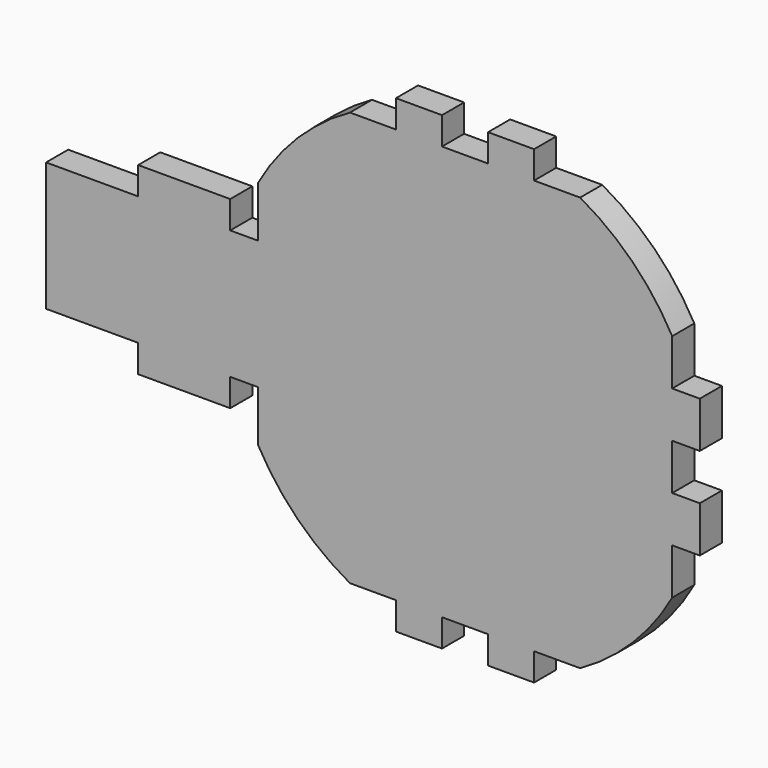
from build123d import *

# Parameters (mm, degrees)
F1_DEPTH = 6


with BuildPart() as f1:
    # F0 (on Front) → F1 (new body)
    with BuildSketch(Plane.XZ):
        with BuildLine():
            Line((43.369441, -58.054813), (53.369441, -58.054813))
            ThreePointArc((53.369441, -58.054813), (64.76999, -49.455363), (73.369441, -38.054813))
            Line((73.369441, -38.054813), (73.369441, -28.054813))
            Line((73.369441, -28.054813), (79.369441, -28.054813))
            Line((79.369441, -28.054813), (79.369441, -18.054813))
            Line((79.369441, -18.054813), (73.369441, -18.054813))
            Line((73.369441, -18.054813), (73.369441, -8.054813))
            Line((73.369441, -8.054813), (79.369441, -8.054813))
            Line((79.369441, -8.054813), (79.369441, 1.945187))
            Line((79.369441, 1.945187), (73.369441, 1.945187))
            Line((73.369441, 1.945187), (73.369441, 11.945187))
            ThreePointArc((73.369441, 11.945187), (64.76999, 23.345736), (53.369441, 31.945187))
            Line((53.369441, 31.945187), (43.369441, 31.945187))
            Line((43.369441, 31.945187), (43.369441, 37.945187))
            Line((43.369441, 37.945187), (33.369441, 37.945187))
            Line((33.369441, 37.945187), (33.369441, 31.945187))
            Line((33.369441, 31.945187), (23.369441, 31.945187))
            Line((23.369441, 31.945187), (23.369441, 37.945187))
            Line((23.369441, 37.945187), (13.369441, 37.945187))
            Line((13.369441, 37.945187), (13.369441, 31.945187))
            Line((13.369441, 31.945187), (3.369441, 31.945187))
            ThreePointArc((3.369441, 31.945187), (-8.031109, 23.345736), (-16.630559, 11.945187))
            Line((-16.630559, 11.945187), (-16.630559, 0.945187))
            Line((-16.630559, 0.945187), (-22.630559, 0.945187))
            Line((-22.630559, 0.945187), (-22.630559, 6.945187))
            Line((-22.630559, 6.945187), (-42.630559, 6.945187))
            Line((-42.630559, 6.945187), (-42.630559, 0.945187))
            Line((-42.630559, 0.945187), (-62.630559, 0.945187))
            Line((-62.630559, 0.945187), (-62.630559, -27.054813))
            Line((-62.630559, -27.054813), (-42.630559, -27.054813))
            Line((-42.630559, -27.054813), (-42.630559, -33.054813))
            Line((-42.630559, -33.054813), (-22.630559, -33.054813))
            Line((-22.630559, -33.054813), (-22.630559, -27.054813))
            Line((-22.630559, -27.054813), (-16.630559, -27.054813))
            Line((-16.630559, -27.054813), (-16.630559, -38.054813))
            ThreePointArc((-16.630559, -38.054813), (-8.031109, -49.455363), (3.369441, -58.054813))
            Line((3.369441, -58.054813), (13.369441, -58.054813))
            Line((13.369441, -58.054813), (13.369441, -64.054813))
            Line((13.369441, -64.054813), (23.369441, -64.054813))
            Line((23.369441, -64.054813), (23.369441, -58.054813))
            Line((23.369441, -58.054813), (33.369441, -58.054813))
            Line((33.369441, -58.054813), (33.369441, -64.054813))
            Line((33.369441, -64.054813), (43.369441, -64.054813))
            Line((43.369441, -64.054813), (43.369441, -58.054813))
        make_face()
    extrude(amount=F1_DEPTH)


solid = f1.part
